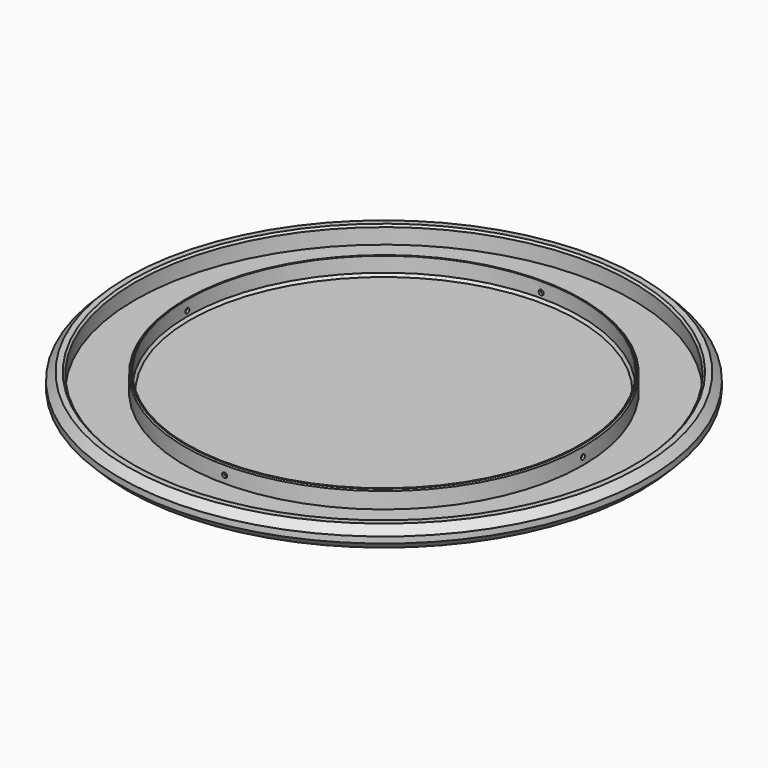
from build123d import *

# Parameters (mm, degrees)
SKETCH019_R             = 106.07
PAD010_DEPTH            = 8.5
SKETCH020_R             = 100
POCKET001_DEPTH         = 7
CHAMFER008_SIZE         = 3
CHAMFER015_SIZE         = 3
SKETCH028_R             = 80
SKETCH028_R_2           = 79
PAD012_DEPTH            = 8
SKETCH029_R             = 1
POCKET006_DEPTH         = 87.5
SKETCH030_R             = 1
POCKET007_DEPTH         = 87.5
CHAMFER016_SIZE         = 1
CHAMFER017_SIZE         = 0.8
CHAMFER018_SIZE         = 0.5
BODY008_PLACEMENT_ANGLE = 180


with BuildPart() as part:
    # Sketch019 → Pad010 (new body)
    with BuildSketch(Plane.XY):
        Circle(SKETCH019_R)
    extrude(amount=PAD010_DEPTH)

    # Sketch020 → Pocket001 (cut)
    with BuildSketch(Plane.XY):
        Circle(SKETCH020_R)
    extrude(amount=POCKET001_DEPTH, mode=Mode.SUBTRACT)

    # Chamfer008
    chamfer008_edges = [part.edges().sort_by_distance(p)[0] for p in [
        (-106.07, 0, 8.5),
    ]]
    chamfer(chamfer008_edges, length=CHAMFER008_SIZE)

    # Chamfer015
    chamfer015_edges = [part.edges().sort_by_distance(p)[0] for p in [
        (-106.07, 0, 0),
    ]]
    chamfer(chamfer015_edges, length=CHAMFER015_SIZE)

    # Sketch028 → Pad012 (join)
    with BuildSketch(Plane.XY):
        Circle(SKETCH028_R)
        Circle(SKETCH028_R_2, mode=Mode.SUBTRACT)
    extrude(amount=PAD012_DEPTH)

    # Sketch029 → Pocket006 (cut, symmetric)
    with BuildSketch(Plane.XZ):
        with Locations((0, 4)):
            Circle(SKETCH029_R)
    extrude(amount=POCKET006_DEPTH, both=True, mode=Mode.SUBTRACT)

    # Sketch030 → Pocket007 (cut, symmetric)
    with BuildSketch(Plane.YZ):
        with Locations((0, 4)):
            Circle(SKETCH030_R)
    extrude(amount=POCKET007_DEPTH, both=True, mode=Mode.SUBTRACT)

    # Chamfer016
    chamfer016_edges = [part.edges().sort_by_distance(p)[0] for p in [
        (-79, 0, 7),
    ]]
    chamfer(chamfer016_edges, length=CHAMFER016_SIZE)

    # Chamfer017
    chamfer017_edges = [part.edges().sort_by_distance(p)[0] for p in [
        (-100, 0, 0),
    ]]
    chamfer(chamfer017_edges, length=CHAMFER017_SIZE)

    # Chamfer018
    chamfer018_edges = [part.edges().sort_by_distance(p)[0] for p in [
        (-80, 0, 0),
    ]]
    chamfer(chamfer018_edges, length=CHAMFER018_SIZE)


with BuildPart() as part_1:
    # Body008 placement: moved
    add(part.part.moved(Location((0, 0, -171))).rotate(Axis((0, 0, -171), (0, 1, 0)), BODY008_PLACEMENT_ANGLE))


solid = part_1.part
